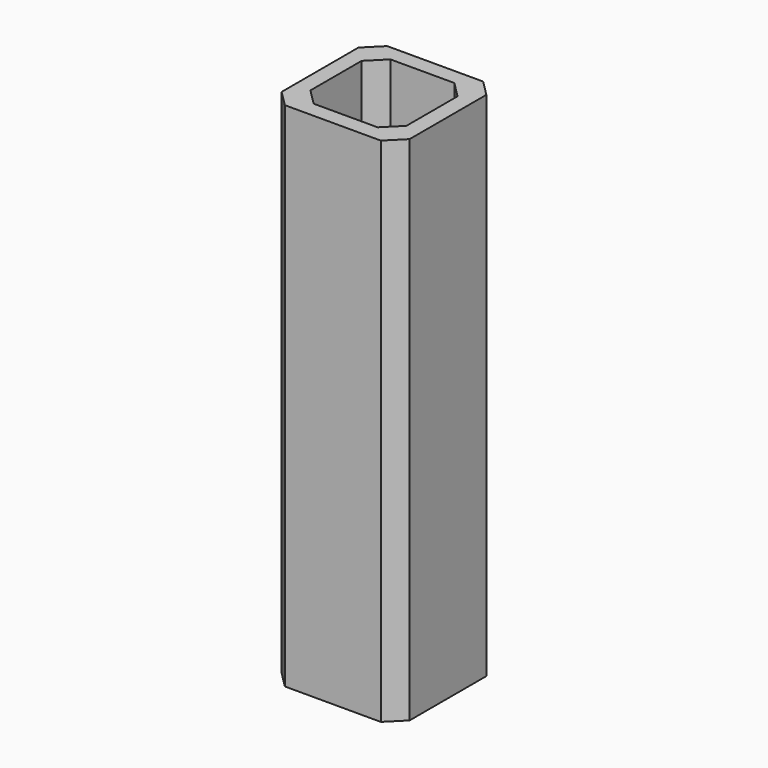
from build123d import *

# Parameters (mm, degrees)
F0_W     = 101.6
F0_H     = 101.6
F0_W_2   = 76.2
F0_H_2   = 76.2
F1_DEPTH = 406.4
F2_SIZE  = 12.7
F3_SIZE  = 12.7


with BuildPart() as f1:
    # F0 (on Top) → F1 (new body)
    with BuildSketch(Plane.XY):
        with Locations((50.8, 50.8)):
            Rectangle(F0_W, F0_H)
        with Locations((50.8, 50.8)):
            Rectangle(F0_W_2, F0_H_2, mode=Mode.SUBTRACT)
    extrude(amount=F1_DEPTH)

    # F2
    f2_edges = [f1.edges().sort_by_distance(p)[0] for p in [
        (12.7, 88.9, 203.2),
        (88.9, 88.9, 203.2),
        (88.9, 12.7, 203.2),
        (12.7, 12.7, 203.2),
    ]]
    chamfer(f2_edges, length=F2_SIZE)

    # F3
    f3_edges = [f1.edges().sort_by_distance(p)[0] for p in [
        (101.6, 0, 203.2),
        (101.6, 101.6, 203.2),
        (0, 0, 203.2),
        (0, 101.6, 203.2),
    ]]
    chamfer(f3_edges, length=F3_SIZE)


solid = f1.part
